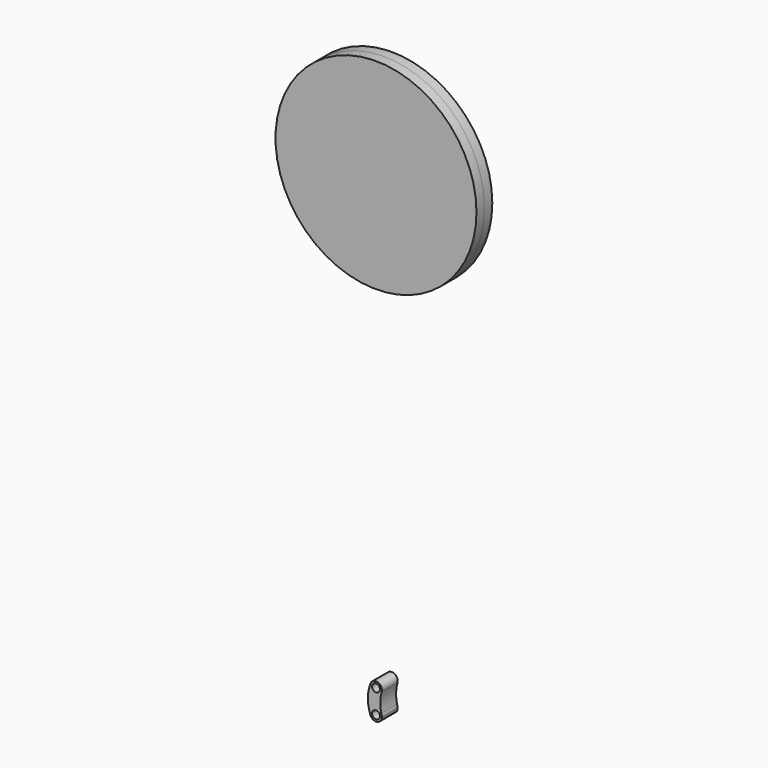
from build123d import *

# Parameters (mm, degrees)
F0_R     = 127
F0_R_2   = 5
F1_DEPTH = 12.5


with BuildPart() as f1:
    # F0 (on Front) → F1 (new body, symmetric)
    with BuildSketch(Plane.XZ):
        with Locations((0, 587.731672)):
            Circle(F0_R)
        with BuildLine():
            ThreePointArc((6.64763, -9.264752), (5.410152, 3.029852), (7.2256, 15.252486))
            ThreePointArc((7.2256, 15.252486), (2.330932, 24.391225), (-7.017341, 19.909696))
            ThreePointArc((-7.017341, 19.909696), (-10.235066, 2.262637), (-7.017341, -15.384421))
            ThreePointArc((-7.017341, -15.384421), (1.46919, -20.092054), (7.495761, -12.485251))
            ThreePointArc((7.495761, -12.485251), (7.044875, -10.882065), (6.64763, -9.264752))
        make_face()
        with Locations((0, -12.737363)):
            Circle(F0_R_2, mode=Mode.SUBTRACT)
        with Locations((0, 17.262637)):
            Circle(F0_R_2, mode=Mode.SUBTRACT)
        with BuildLine():
            ThreePointArc((7.495761, -12.485251), (7.252708, -10.827331), (6.64763, -9.264752))
            ThreePointArc((6.64763, -9.264752), (7.044875, -10.882065), (7.495761, -12.485251))
        make_face()
    extrude(amount=F1_DEPTH, both=True)


solid = f1.part
